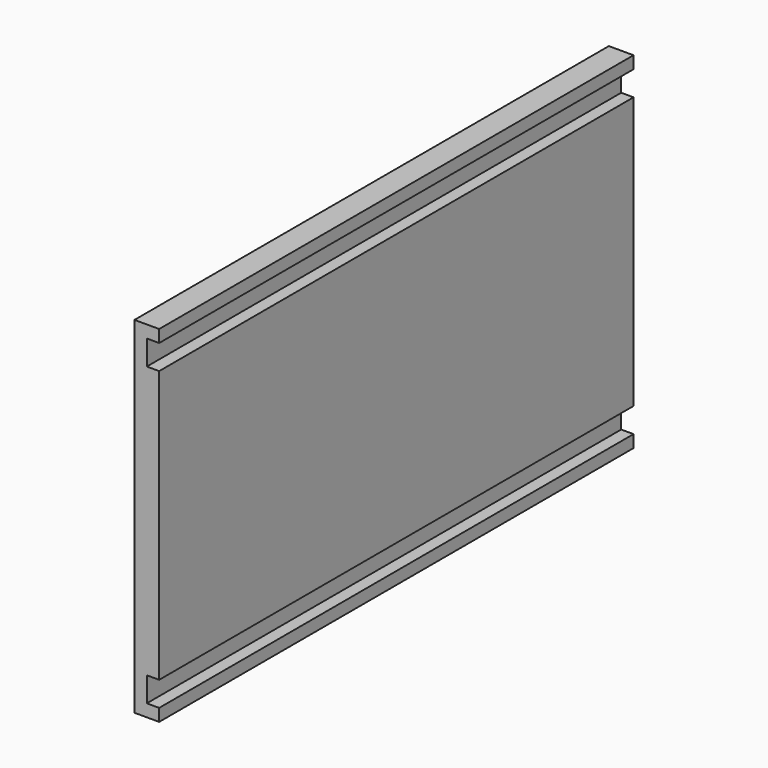
from build123d import *

# Parameters (mm, degrees)
F0_W     = 304.8
F0_H     = 177.8
F1_DEPTH = 12.7
F2_W     = 304.8
F2_H     = 12.7
F3_DEPTH = 6.35
F4_W     = 304.8
F4_H     = 12.7
F5_DEPTH = 6.35


with BuildPart() as f1:
    # F0 (on Right) → F1 (new body)
    with BuildSketch(Plane.YZ):
        with Locations((152.4, 88.9)):
            Rectangle(F0_W, F0_H)
    extrude(amount=F1_DEPTH)

    # F2 (on face) → F3 (cut)
    with BuildSketch(Plane.YZ.offset(12.7)):
        with Locations((152.4, 12.7)):
            Rectangle(F2_W, F2_H)
    extrude(amount=-F3_DEPTH, mode=Mode.SUBTRACT)

    # F4 (on face) → F5 (cut)
    with BuildSketch(Plane.YZ.offset(12.7)):
        with Locations((152.4, 165.1)):
            Rectangle(F4_W, F4_H)
    extrude(amount=-F5_DEPTH, mode=Mode.SUBTRACT)


solid = f1.part
